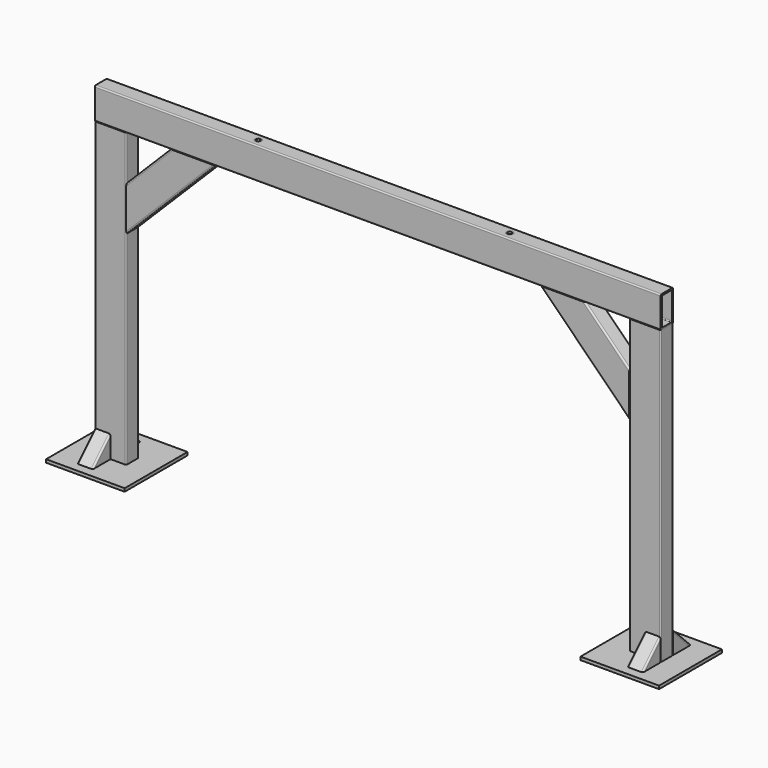
from build123d import *

# Parameters (mm, degrees)
F1_DEPTH  = 930
F3_DEPTH  = 1800
F5_DEPTH  = 25
F6_R      = 5
F7_W      = 250
F7_H      = 250
F8_DEPTH  = 10
F10_DEPTH = 50
F11_R     = 5
F13_R     = 11
F14_DEPTH = 100
F15_R     = 11
F15_R_2   = 7
F16_DEPTH = 100
F17_R     = 5
F18_R     = 5


with BuildPart() as f1:
    # F0 (on Top) → F1 (new body)
    with BuildSketch(Plane.XY):
        with BuildLine():
            Line((-896, -25), (-804, -25))
            ThreePointArc((-804, -25), (-801.171573, -23.828427), (-800, -21))
            Line((-800, -21), (-800, 21))
            ThreePointArc((-800, 21), (-801.171573, 23.828427), (-804, 25))
            Line((-804, 25), (-896, 25))
            ThreePointArc((-896, 25), (-898.828427, 23.828427), (-900, 21))
            Line((-900, 21), (-900, -21))
            ThreePointArc((-900, -21), (-898.828427, -23.828427), (-896, -25))
        make_face()
        with BuildLine():
            ThreePointArc((-805, -17), (-805.87868, -19.12132), (-808, -20))
            Line((-808, -20), (-892, -20))
            ThreePointArc((-892, -20), (-894.12132, -19.12132), (-895, -17))
            Line((-895, -17), (-895, 17))
            ThreePointArc((-895, 17), (-894.12132, 19.12132), (-892, 20))
            Line((-892, 20), (-808, 20))
            ThreePointArc((-808, 20), (-805.87868, 19.12132), (-805, 17))
            Line((-805, 17), (-805, -17))
        make_face(mode=Mode.SUBTRACT)
        with BuildLine():
            ThreePointArc((804, 25), (801.171573, 23.828427), (800, 21))
            Line((800, 21), (800, -21))
            ThreePointArc((800, -21), (801.171573, -23.828427), (804, -25))
            Line((804, -25), (896, -25))
            ThreePointArc((896, -25), (898.828427, -23.828427), (900, -21))
            Line((900, -21), (900, 21))
            ThreePointArc((900, 21), (898.828427, 23.828427), (896, 25))
            Line((896, 25), (804, 25))
        make_face()
        with BuildLine():
            Line((892, -20), (808, -20))
            ThreePointArc((808, -20), (805.87868, -19.12132), (805, -17))
            Line((805, -17), (805, 17))
            ThreePointArc((805, 17), (805.87868, 19.12132), (808, 20))
            Line((808, 20), (892, 20))
            ThreePointArc((892, 20), (894.12132, 19.12132), (895, 17))
            Line((895, 17), (895, -17))
            ThreePointArc((895, -17), (894.12132, -19.12132), (892, -20))
        make_face(mode=Mode.SUBTRACT)
    extrude(amount=F1_DEPTH)


with BuildPart() as f3:
    # F2 (on face) → F3 (new body)
    with BuildSketch(Plane(origin=(-900, 0, 0), x_dir=(0, -1, 0), z_dir=(-1, 0, 0))):
        with BuildLine():
            Line((-21, 930), (21, 930))
            ThreePointArc((21, 930), (23.828427, 931.171573), (25, 934))
            Line((25, 934), (25, 1026))
            ThreePointArc((25, 1026), (23.828427, 1028.828427), (21, 1030))
            Line((21, 1030), (-21, 1030))
            ThreePointArc((-21, 1030), (-23.828427, 1028.828427), (-25, 1026))
            Line((-25, 1026), (-25, 934))
            ThreePointArc((-25, 934), (-23.828427, 931.171573), (-21, 930))
        make_face()
        with BuildLine():
            ThreePointArc((20, 938), (19.12132, 935.87868), (17, 935))
            Line((17, 935), (-17, 935))
            ThreePointArc((-17, 935), (-19.12132, 935.87868), (-20, 938))
            Line((-20, 938), (-20, 1022))
            ThreePointArc((-20, 1022), (-19.12132, 1024.12132), (-17, 1025))
            Line((-17, 1025), (17, 1025))
            ThreePointArc((17, 1025), (19.12132, 1024.12132), (20, 1022))
            Line((20, 1022), (20, 938))
        make_face(mode=Mode.SUBTRACT)
    extrude(amount=-F3_DEPTH)

    # F13 (on face) → F14 (cut)
    with BuildSketch(Plane(origin=(0, 0, 930), x_dir=(1, 0, 0), z_dir=(0, 0, -1))):
        with Locations((-400, 0)):
            Circle(F13_R)
        with Locations((400, 0)):
            Circle(F13_R)
    extrude(amount=-F14_DEPTH, mode=Mode.SUBTRACT)


with BuildPart() as f5:
    # F4 (on Front) → F5 (new body, symmetric)
    with BuildSketch(Plane.XZ):
        Polygon((800, 647.157288), (800, 788.578644), (658.578644, 930), (517.157288, 930), align=None)
        Polygon((-658.578644, 930), (-800, 788.578644), (-800, 647.157288), (-517.157288, 930), align=None)
    extrude(amount=F5_DEPTH, both=True)

    # F6
    f6_edges = [f5.edges().sort_by_distance(p)[0] for p in [
        (658.578644, 25, 788.578644),
        (658.578644, -25, 788.578644),
        (-658.578644, 25, 788.578644),
        (-658.578644, -25, 788.578644),
    ]]
    fillet(f6_edges, radius=F6_R)

    # F17
    f17_edges = [f5.edges().sort_by_distance(p)[0] for p in [
        (-729.289322, -25, 859.289322),
        (-729.289322, 25, 859.289322),
    ]]
    fillet(f17_edges, radius=F17_R)

    # F18
    f18_edges = [f5.edges().sort_by_distance(p)[0] for p in [
        (729.289322, 25, 859.289322),
        (729.289322, -25, 859.289322),
    ]]
    fillet(f18_edges, radius=F18_R)


with BuildPart() as f8:
    # F7 (on face) → F8 (new body)
    with BuildSketch(Plane(origin=(0, 0, 0), x_dir=(1, 0, 0), z_dir=(0, 0, -1))):
        with Locations((850, 0)):
            Rectangle(F7_W, F7_H)
        with Locations((-850, 0)):
            Rectangle(F7_W, F7_H)
    extrude(amount=F8_DEPTH)


with BuildPart() as f10:
    # F9 (on face) → F10 (new body)
    with BuildSketch(Plane.YZ.offset(900)):
        Polygon((-25, 0), (-25, 70.710678), (-95.710678, 0), align=None)
        Polygon((95.710678, 0), (25, 70.710678), (25, 0), align=None)
    extrude(amount=-F10_DEPTH)

    # F11
    f11_edges = [f10.edges().sort_by_distance(p)[0] for p in [
        (900, 60.355339, 35.355339),
        (850, 60.355339, 35.355339),
        (900, -60.355339, 35.355339),
        (850, -60.355339, 35.355339),
    ]]
    fillet(f11_edges, radius=F11_R)


with BuildPart() as f12_1:
    # F12: instance of F10
    add(f10.part.mirror(Plane.YZ))


with BuildPart() as f16:
    # F15 (on face) → F16 (new body)
    with BuildSketch(Plane(origin=(0, 0, 930), x_dir=(1, 0, 0), z_dir=(0, 0, -1))):
        with Locations((-400, 0)):
            Circle(F15_R)
        with Locations((-400, 0)):
            Circle(F15_R_2, mode=Mode.SUBTRACT)
        with Locations((400, 0)):
            Circle(F15_R)
        with Locations((400, 0)):
            Circle(F15_R_2, mode=Mode.SUBTRACT)
    extrude(amount=-F16_DEPTH)


solid = Compound([f1.part, f3.part, f5.part, f8.part, f10.part, f12_1.part, f16.part])
